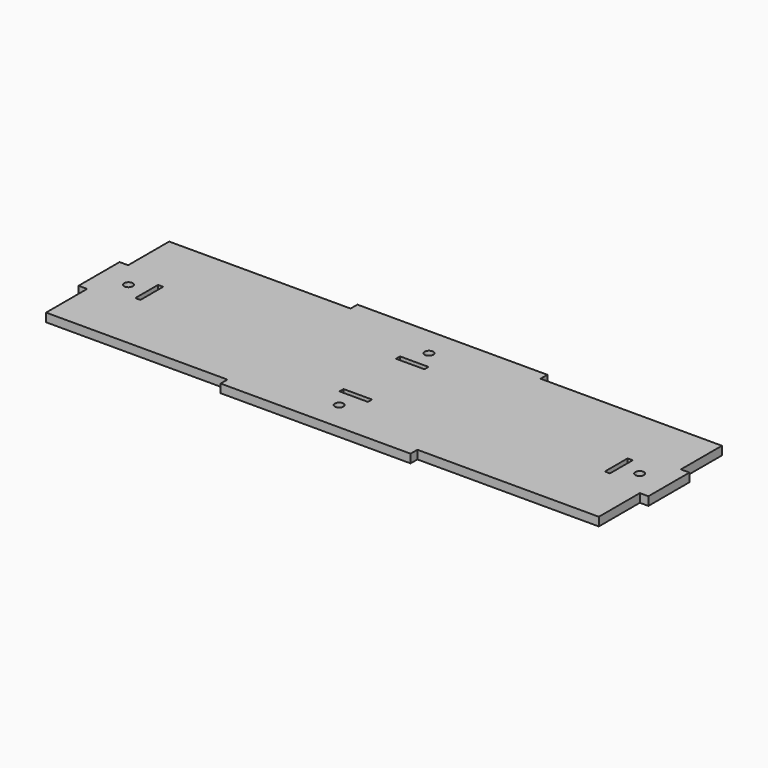
from build123d import *

# Parameters (mm, degrees)
F0_R     = 1.5
F0_W     = 10
F0_H     = 1.8
F0_W_2   = 1.8
F0_H_2   = 10
F1_DEPTH = 3


with BuildPart() as f1:
    # F0 (on Top) → F1 (new body)
    with BuildSketch(Plane.XY):
        Polygon((-33.333333, 27), (-97, 27), (-97, 9), (-100, 9), (-100, -9), (-97, -9), (-97, -27), (-33.333333, -27), (-33.333333, -30), (33.333333, -30), (33.333333, -27), (97, -27), (97, -9), (100, -9), (100, 9), (97, 9), (97, 27), (33.333333, 27), (33.333333, 30), (-33.333333, 30), align=None)
        with Locations((0, -19.7)):
            Circle(F0_R, mode=Mode.SUBTRACT)
        with Locations((0, -12.4)):
            Rectangle(F0_W, F0_H, mode=Mode.SUBTRACT)
        with Locations((-89.7, 0)):
            Circle(F0_R, mode=Mode.SUBTRACT)
        with Locations((-82.4, 0)):
            Rectangle(F0_W_2, F0_H_2, mode=Mode.SUBTRACT)
        with Locations((0, 12.4)):
            Rectangle(F0_W, F0_H, mode=Mode.SUBTRACT)
        with Locations((82.4, 0)):
            Rectangle(F0_W_2, F0_H_2, mode=Mode.SUBTRACT)
        with Locations((89.7, 0)):
            Circle(F0_R, mode=Mode.SUBTRACT)
        with Locations((0, 19.7)):
            Circle(F0_R, mode=Mode.SUBTRACT)
    extrude(amount=F1_DEPTH)


solid = f1.part
